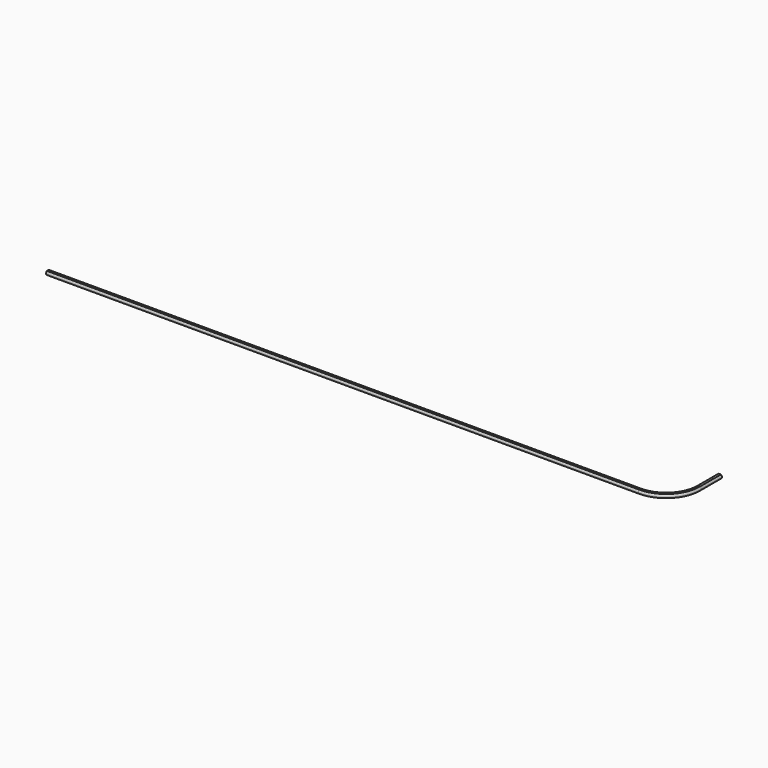
from build123d import *


with BuildPart() as f2:
    # F2: sweep along a path in F0
    with BuildLine(Plane.XY) as f2_path:
        Line((0, 0), (2720, 0))
        ThreePointArc((2720, 0), (2826.066017, 43.933983), (2870, 150))
        Line((2870, 150), (2870, 270))
    # F1 (on Right) → F2 (sweep)
    with BuildSketch(Plane.YZ):
        with BuildLine():
            ThreePointArc((5.5, -8.351647), (8.803408, -4.743416), (10, 0))
            ThreePointArc((10, 0), (8.803408, 4.743416), (5.5, 8.351647))
            Line((5.5, 8.351647), (-5.5, 8.351647))
            ThreePointArc((-5.5, 8.351647), (-10, 0), (-5.5, -8.351647))
            Line((-5.5, -8.351647), (5.5, -8.351647))
        make_face()
    sweep(path=f2_path.line)


solid = f2.part
